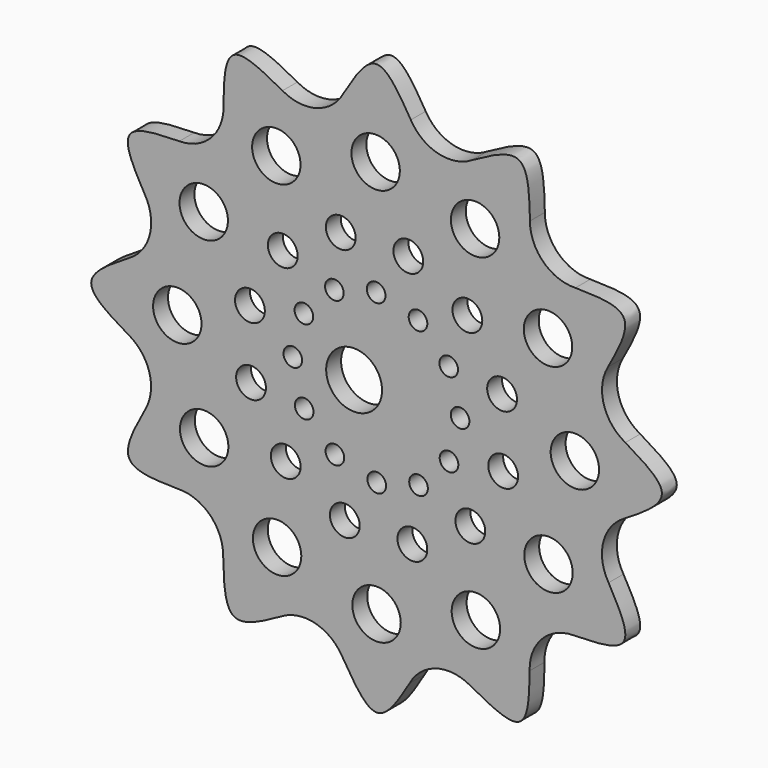
from build123d import *

# Parameters (mm, degrees)
F0_R     = 4.1275
F0_R_2   = 2.5404111094
F0_R_3   = 1.5875
F0_R_4   = 4.7625
F1_DEPTH = 3.175


with BuildPart() as f1:
    # F0 (on Front) → F1 (new body)
    with BuildSketch(Plane.XZ):
        with BuildLine():
            ThreePointArc((-5.6526899501, 42.4243148479), (-10.2163375942, 38.7378035599), (-16.0377128052, 39.465014636))
            add(Edge.make_bspline(
                [(-16.0377128052, 39.465014636), (-19.3590733847, 41.2787515205), (-25.937027446, 44.8708571108), (-26.0510704547, 37.5423596471), (-26.1075305205, 33.9141894214)],
                knots=[0, 0, 0, 0, 0.5049230427, 1, 1, 1, 1], degree=3))
            ThreePointArc((-26.1075305205, 33.9141894214), (-28.2165096701, 28.4397531725), (-33.6215740259, 26.1588488329))
            add(Edge.make_bspline(
                [(-33.6215740259, 26.1588488329), (-37.4048251051, 26.0689107609), (-44.8975532223, 25.8907884246), (-41.3320686331, 19.487101945), (-39.5668793715, 16.3167843274)],
                knots=[0, 0, 0, 0, 0.5049230427, 1, 1, 1, 1], degree=3))
            ThreePointArc((-39.5668793715, 16.3167843274), (-38.6560907667, 10.5212938897), (-42.1965616381, 5.8434406101))
            add(Edge.make_bspline(
                [(-42.1965616381, 5.8434406101), (-45.4279841456, 3.8739264153), (-51.8278158705, -0.0266961114), (-45.5381723997, -3.789708986), (-42.4243148479, -5.6526899501)],
                knots=[0, 0, 0, 0, 0.5049230427, 1, 1, 1, 1], degree=3))
            ThreePointArc((-42.4243148479, -5.6526899501), (-38.7378035599, -10.2163375942), (-39.465014636, -16.0377128052))
            add(Edge.make_bspline(
                [(-39.465014636, -16.0377128052), (-41.2787515205, -19.3590733847), (-44.8708571108, -25.937027446), (-37.5423596471, -26.0510704547), (-33.9141894214, -26.1075305205)],
                knots=[0, 0, 0, 0, 0.5049230427, 1, 1, 1, 1], degree=3))
            ThreePointArc((-33.9141894214, -26.1075305205), (-28.4397531725, -28.2165096701), (-26.1588488329, -33.6215740259))
            add(Edge.make_bspline(
                [(-26.1588488329, -33.6215740259), (-26.0689107609, -37.4048251051), (-25.8907884246, -44.8975532223), (-19.487101945, -41.3320686331), (-16.3167843274, -39.5668793715)],
                knots=[0, 0, 0, 0, 0.5049230427, 1, 1, 1, 1], degree=3))
            ThreePointArc((-16.3167843274, -39.5668793715), (-10.5212938897, -38.6560907667), (-5.8434406101, -42.1965616381))
            add(Edge.make_bspline(
                [(-5.8434406101, -42.1965616381), (-3.8739264153, -45.4279841456), (0.0266961114, -51.8278158705), (3.789708986, -45.5381723997), (5.6526899501, -42.4243148479)],
                knots=[0, 0, 0, 0, 0.5049230427, 1, 1, 1, 1], degree=3))
            ThreePointArc((5.6526899501, -42.4243148479), (10.2163375942, -38.7378035599), (16.0377128052, -39.465014636))
            add(Edge.make_bspline(
                [(16.0377128052, -39.465014636), (19.3590733847, -41.2787515205), (25.937027446, -44.8708571108), (26.0510704547, -37.5423596471), (26.1075305205, -33.9141894214)],
                knots=[0, 0, 0, 0, 0.5049230427, 1, 1, 1, 1], degree=3))
            ThreePointArc((26.1075305205, -33.9141894214), (28.2165096701, -28.4397531725), (33.6215740259, -26.1588488329))
            add(Edge.make_bspline(
                [(33.6215740259, -26.1588488329), (37.4048251051, -26.0689107609), (44.8975532223, -25.8907884246), (41.3320686331, -19.487101945), (39.5668793715, -16.3167843274)],
                knots=[0, 0, 0, 0, 0.5049230427, 1, 1, 1, 1], degree=3))
            ThreePointArc((39.5668793715, -16.3167843274), (38.6560907667, -10.5212938897), (42.1965616381, -5.8434406101))
            add(Edge.make_bspline(
                [(42.4243148479, 5.6526899501), (45.5381723997, 3.789708986), (51.8278158705, 0.0266961114), (45.4279841456, -3.8739264153), (42.1965616381, -5.8434406101)],
                knots=[0, 0, 0, 0, 0.4950769573, 1, 1, 1, 1], degree=3))
            ThreePointArc((42.4243148479, 5.6526899501), (38.7378035599, 10.2163375942), (39.465014636, 16.0377128052))
            add(Edge.make_bspline(
                [(33.9141894214, 26.1075305205), (37.5423596471, 26.0510704547), (44.8708571108, 25.937027446), (41.2787515205, 19.3590733847), (39.465014636, 16.0377128052)],
                knots=[0, 0, 0, 0, 0.4950769573, 1, 1, 1, 1], degree=3))
            ThreePointArc((33.9141894214, 26.1075305205), (28.4397531725, 28.2165096701), (26.1588488329, 33.6215740259))
            add(Edge.make_bspline(
                [(16.3167843274, 39.5668793715), (19.487101945, 41.3320686331), (25.8907884246, 44.8975532223), (26.0689107609, 37.4048251051), (26.1588488329, 33.6215740259)],
                knots=[0, 0, 0, 0, 0.4950769573, 1, 1, 1, 1], degree=3))
            ThreePointArc((16.3167843274, 39.5668793715), (10.5212938897, 38.6560907667), (5.8434406101, 42.1965616381))
            add(Edge.make_bspline(
                [(-5.6526899501, 42.4243148479), (-3.7759205366, 45.5406430422), (0.0104416401, 51.8278017738), (3.8879032615, 45.4254752545), (5.8434406101, 42.1965616381)],
                knots=[0, 0, 0, 0, 0.4956655824, 1, 1, 1, 1], degree=3))
        make_face()
        with Locations((-16.9599252474, -29.3697753454)):
            Circle(F0_R, mode=Mode.SUBTRACT)
        with Locations((-29.396216652, -16.9902134209)):
            Circle(F0_R, mode=Mode.SUBTRACT)
        with Locations((-33.9765799749, -0.0510526042)):
            Circle(F0_R, mode=Mode.SUBTRACT)
        with Locations((-15.4859397151, -15.9911519154)):
            Circle(F0_R_2, mode=Mode.SUBTRACT)
        with Locations((-5.4156412371, -21.591713652)):
            Circle(F0_R_2, mode=Mode.SUBTRACT)
        with Locations((-21.4067931524, -6.1057739369)):
            Circle(F0_R_2, mode=Mode.SUBTRACT)
        with Locations((-7.1021895773, -12.2543237497)):
            Circle(F0_R_3, mode=Mode.SUBTRACT)
        with Locations((-12.3407943156, -7.0539097078)):
            Circle(F0_R_3, mode=Mode.SUBTRACT)
        with Locations((0, -33.8726447575)):
            Circle(F0_R, mode=Mode.SUBTRACT)
        with Locations((16.9391608166, -29.2922814346)):
            Circle(F0_R, mode=Mode.SUBTRACT)
        with Locations((6.1057739369, -21.4067931524)):
            Circle(F0_R_2, mode=Mode.SUBTRACT)
        with Locations((0.0347822273, -14.1387120511)):
            Circle(F0_R_3, mode=Mode.SUBTRACT)
        with Locations((15.9911519154, -15.4859397151)):
            Circle(F0_R_2, mode=Mode.SUBTRACT)
        with Locations((7.1577752669, -12.2021542883)):
            Circle(F0_R_3, mode=Mode.SUBTRACT)
        with Locations((12.3581893089, -6.9635495501)):
            Circle(F0_R_3, mode=Mode.SUBTRACT)
        with Locations((21.591713652, -5.4156412371)):
            Circle(F0_R_2, mode=Mode.SUBTRACT)
        with Locations((29.3187227412, -16.8559900301)):
            Circle(F0_R, mode=Mode.SUBTRACT)
        with Locations((-29.4737105627, 16.9088726432)):
            Circle(F0_R, mode=Mode.SUBTRACT)
        with Locations((-21.591713652, 5.4156412371)):
            Circle(F0_R_2, mode=Mode.SUBTRACT)
        with Locations((-14.2773520783, 0.0690833318)):
            Circle(F0_R_3, mode=Mode.SUBTRACT)
        with Locations((-3.8251928054, 0)):
            Circle(F0_R_4, mode=Mode.SUBTRACT)
        with Locations((-12.3929637769, 7.2060551365)):
            Circle(F0_R_3, mode=Mode.SUBTRACT)
        with Locations((-7.192549735, 12.4446598747)):
            Circle(F0_R_3, mode=Mode.SUBTRACT)
        with Locations((-15.9911519154, 15.4859397151)):
            Circle(F0_R_2, mode=Mode.SUBTRACT)
        with Locations((-0.0695566954, 14.3812176375)):
            Circle(F0_R_3, mode=Mode.SUBTRACT)
        with Locations((-6.1057739369, 21.4067931524)):
            Circle(F0_R_2, mode=Mode.SUBTRACT)
        with Locations((-17.0941486382, 29.3451640477)):
            Circle(F0_R, mode=Mode.SUBTRACT)
        with Locations((-0.1549878216, 33.9255273706)):
            Circle(F0_R, mode=Mode.SUBTRACT)
        with Locations((12.3060198475, 7.2964152942)):
            Circle(F0_R_3, mode=Mode.SUBTRACT)
        with Locations((7.0674151092, 12.4968293361)):
            Circle(F0_R_3, mode=Mode.SUBTRACT)
        with Locations((14.2425776102, 0.1734222545)):
            Circle(F0_R_3, mode=Mode.SUBTRACT)
        with Locations((21.4067931524, 6.1057739369)):
            Circle(F0_R_2, mode=Mode.SUBTRACT)
        with Locations((5.4156412371, 21.591713652)):
            Circle(F0_R_2, mode=Mode.SUBTRACT)
        with Locations((15.4859397151, 15.9911519154)):
            Circle(F0_R_2, mode=Mode.SUBTRACT)
        with Locations((33.8215921533, 0.1039352173)):
            Circle(F0_R, mode=Mode.SUBTRACT)
        with Locations((29.2412288304, 17.043096034)):
            Circle(F0_R, mode=Mode.SUBTRACT)
        with Locations((16.8049374259, 29.4226579585)):
            Circle(F0_R, mode=Mode.SUBTRACT)
    extrude(amount=F1_DEPTH)


solid = f1.part
